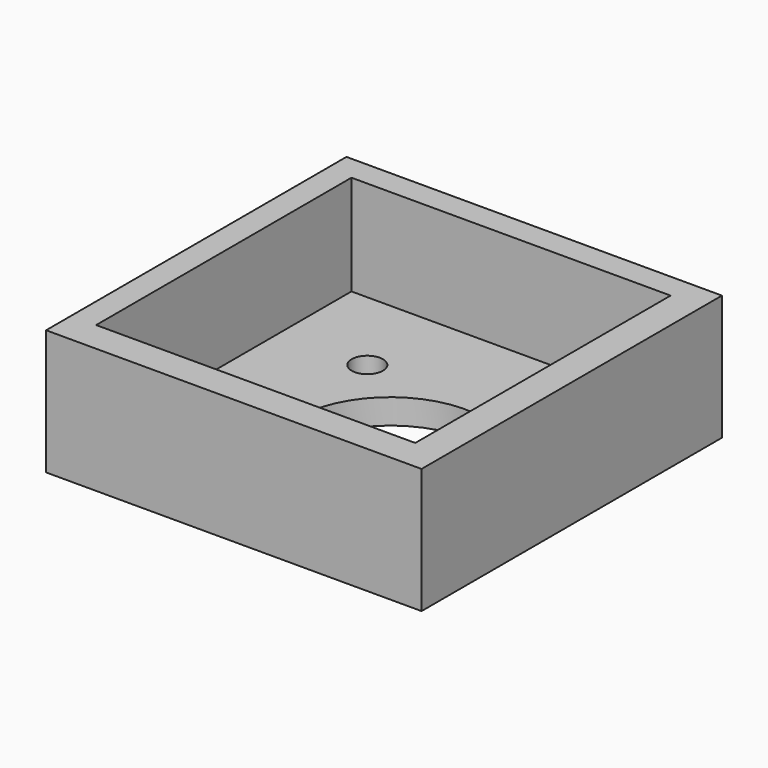
from build123d import *

# Parameters (mm, degrees)
SKETCH_W        = 60
SKETCH_H        = 60
PAD_DEPTH       = 4
SKETCH001_W     = 60
SKETCH001_H     = 60
SKETCH001_W_2   = 51
SKETCH001_H_2   = 51
PAD001_DEPTH    = 16
SKETCH002_R     = 15
POCKET_DEPTH    = 5
SKETCH003_R     = 2.5
POCKET001_DEPTH = 5


with BuildPart() as part:
    # Sketch → Pad (new body)
    with BuildSketch(Plane.XY):
        with Locations((20, -20)):
            Rectangle(SKETCH_W, SKETCH_H)
    extrude(amount=PAD_DEPTH)

    # Sketch001 (on Face6 of Pad) → Pad001 (join)
    with BuildSketch(Plane.XY.offset(4)):
        with Locations((20, -20)):
            Rectangle(SKETCH001_W, SKETCH001_H)
        with Locations((19.5, -19.5)):
            Rectangle(SKETCH001_W_2, SKETCH001_H_2, mode=Mode.SUBTRACT)
    extrude(amount=PAD001_DEPTH)

    # Sketch002 (on Face4 of Pad001) → Pocket (cut)
    with BuildSketch(Plane(origin=(0, 0, 0), x_dir=(1, 0, 0), z_dir=(0, 0, -1))):
        with Locations((25, 25)):
            Circle(SKETCH002_R)
    extrude(amount=-POCKET_DEPTH, mode=Mode.SUBTRACT)

    # Sketch003 (on Face4 of Pocket) → Pocket001 (cut)
    with BuildSketch(Plane(origin=(0, 0, 0), x_dir=(1, 0, 0), z_dir=(0, 0, -1))):
        with Locations((7.960481, 8.281351)):
            Circle(SKETCH003_R)
    extrude(amount=-POCKET001_DEPTH, mode=Mode.SUBTRACT)


solid = part.part
